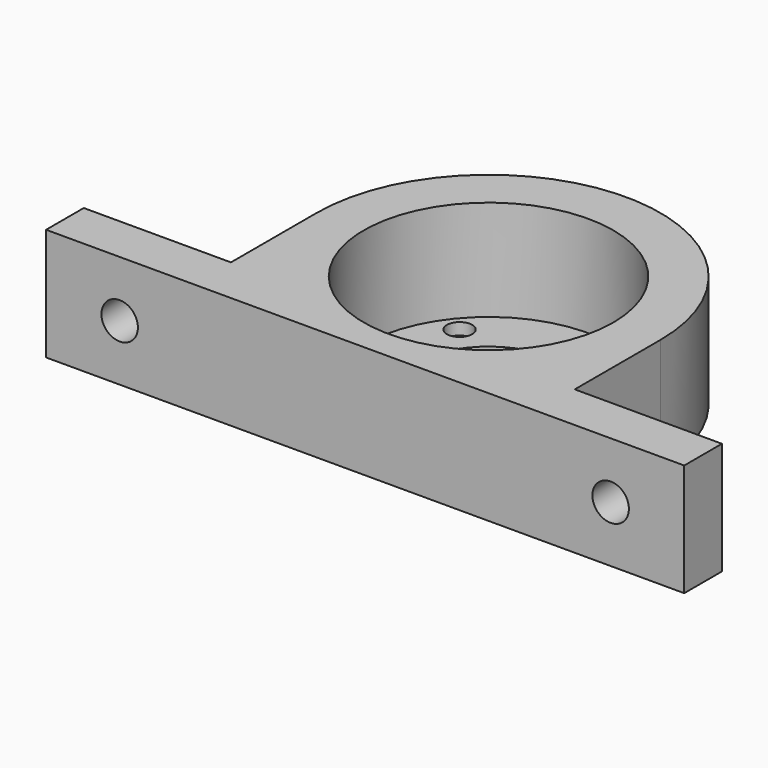
from build123d import *

# Parameters (mm, degrees)
F0_R     = 21.2
F1_DEPTH = 17.1
F2_R     = 12.7
F3_DEPTH = 2
F5_R     = 2.15
F6_DEPTH = 25
F7_R     = 3.1
F8_DEPTH = 8.001


with BuildPart() as f1:
    # F0 (on Top) → F1 (new body)
    with BuildSketch(Plane.XY):
        with BuildLine():
            Line((-54.2, -26.2), (54.2, -26.2))
            Line((54.2, -26.2), (54.2, -18.2))
            Line((54.2, -18.2), (29.2, -18.2))
            Line((29.2, -18.2), (29.2, 0))
            ThreePointArc((29.2, 0), (0, 29.2), (-29.2, 0))
            Line((-29.2, 0), (-29.2, -18.2))
            Line((-29.2, -18.2), (-54.2, -18.2))
            Line((-54.2, -18.2), (-54.2, -26.2))
        make_face()
        Circle(F0_R, mode=Mode.SUBTRACT)
    extrude(amount=F1_DEPTH)

    # F2 (on face) → F3 (join)
    with BuildSketch(Plane(origin=(0, 0, 0), x_dir=(1, 0, 0), z_dir=(0, 0, -1))):
        with BuildLine():
            Line((-29.2, 18.2), (-29.2, 0))
            ThreePointArc((-29.2, 0), (0, -29.2), (29.2, 0))
            Line((29.2, 0), (29.2, 18.2))
            Line((29.2, 18.2), (54.2, 18.2))
            Line((54.2, 18.2), (54.2, 26.2))
            Line((54.2, 26.2), (-54.2, 26.2))
            Line((-54.2, 26.2), (-54.2, 18.2))
            Line((-54.2, 18.2), (-29.2, 18.2))
        make_face()
        Circle(F2_R, mode=Mode.SUBTRACT)
    extrude(amount=F3_DEPTH)

    # F5 (on face) → F6 (cut)
    with BuildSketch(Plane.XY):
        with Locations((11.327767, 13.988627)):
            Circle(F5_R)
        with Locations((13.988627, -11.327767)):
            Circle(F5_R)
        with Locations((-11.327767, -13.988627)):
            Circle(F5_R)
        with Locations((-13.988627, 11.327767)):
            Circle(F5_R)
    extrude(amount=-F6_DEPTH, mode=Mode.SUBTRACT)

    # F7 (on face) → F8 (cut, through all)
    with BuildSketch(Plane(origin=(0, -18.2, 0), x_dir=(-1, 0, 0), z_dir=(0, 1, 0))):
        with Locations((41.7, 7.55)):
            Circle(F7_R)
        with Locations((-41.7, 7.55)):
            Circle(F7_R)
    extrude(amount=-F8_DEPTH, mode=Mode.SUBTRACT)


solid = f1.part
